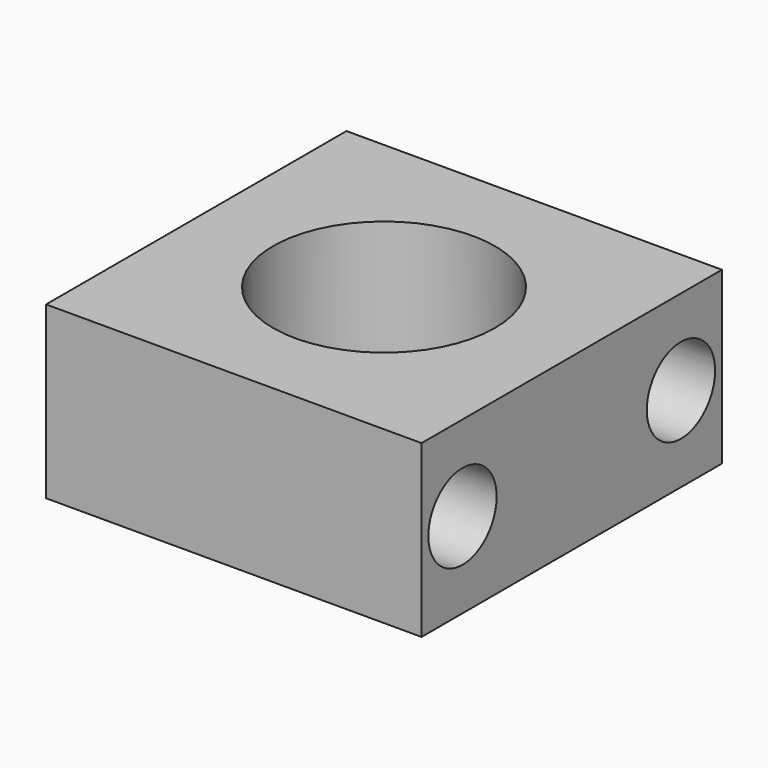
from build123d import *

# Parameters (mm, degrees)
CYLINDER095_R          = 2.6
CYLINDER095_DEPTH      = 2
CYLINDER096_R          = 2.5
CYLINDER096_DEPTH      = 5
CYLINDER094_R          = 6.5
CYLINDER094_DEPTH      = 130
CYLINDER098_R          = 2.6
CYLINDER098_DEPTH      = 2
CYLINDER097_R          = 2.5
CYLINDER097_DEPTH      = 5
BOX026_W               = 10
BOX026_H               = 22
BOX026_DEPTH           = 22
CUT053_PLACEMENT_ANGLE = 90


with BuildPart() as cilindro095:
    # Cylinder095 → Cylinder095 (new body)
    with BuildSketch(Plane.XY.offset(5)):
        Circle(CYLINDER095_R)
    extrude(amount=CYLINDER095_DEPTH)


with BuildPart() as obj1:
    # Cylinder096 → Cylinder096 (new body)
    with BuildSketch(Plane.XY):
        Circle(CYLINDER096_R)
    extrude(amount=CYLINDER096_DEPTH)

    # Fusion036: union Cilindro095
    add(cilindro095.part)


with BuildPart() as obj1_1:
    # Fusion036 placement: moved
    add(obj1.part.moved(Location((3, 8, -11))))


with BuildPart() as cilindro094:
    # Cylinder094 → Cylinder094 (new body)
    with BuildSketch(Plane(origin=(0, 0, 0), x_dir=(0, 0, -1), z_dir=(1, 0, 0))):
        Circle(CYLINDER094_R)
    extrude(amount=CYLINDER094_DEPTH)


with BuildPart() as cilindro098:
    # Cylinder098 → Cylinder098 (new body)
    with BuildSketch(Plane.XY.offset(5)):
        Circle(CYLINDER098_R)
    extrude(amount=CYLINDER098_DEPTH)


with BuildPart() as fusion038:
    # Cylinder097 → Cylinder097 (new body)
    with BuildSketch(Plane.XY):
        Circle(CYLINDER097_R)
    extrude(amount=CYLINDER097_DEPTH)

    # Fusion037: union Cilindro098
    add(cilindro098.part)


with BuildPart() as fusion038_1:
    # Fusion037 placement: moved
    add(fusion038.part.moved(Location((3, -8, -11))))

    # Fusion038: union obj1, Cilindro094
    add(obj1_1.part)
    add(cilindro094.part)


with BuildPart() as obj2:
    # Box026 → Box026 (new body)
    with BuildSketch(Plane(origin=(-2, -11, -11), x_dir=(1, 0, 0), z_dir=(0, 0, 1))):
        with Locations((5, 11)):
            Rectangle(BOX026_W, BOX026_H)
    extrude(amount=BOX026_DEPTH)

    # Cut053: cut Fusion038
    add(fusion038_1.part, mode=Mode.SUBTRACT)


with BuildPart() as obj2_1:
    # Cut053 placement: moved
    add(obj2.part.rotate(Axis((0, 0, 0), (0, -1, 0)), CUT053_PLACEMENT_ANGLE))


solid = obj2_1.part
